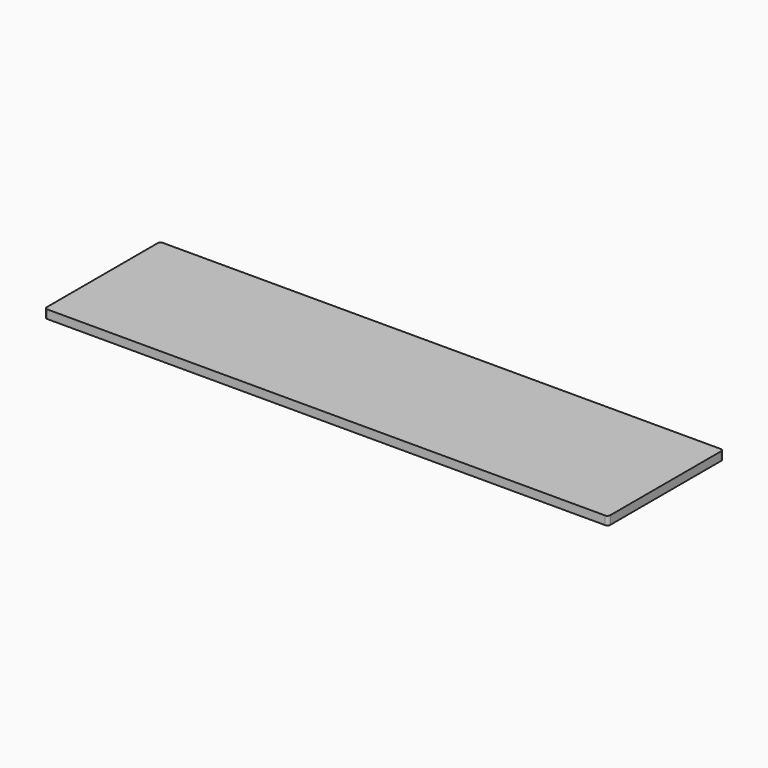
from build123d import *

# Parameters (mm, degrees)
PAD_DEPTH = 3


with BuildPart() as part:
    # Sketch → Pad (new body)
    with BuildSketch(Plane.XY):
        with BuildLine():
            ThreePointArc((0, 1), (0.292893, 0.292893), (1, 0))
            Line((197.4375, 0), (1, 0))
            ThreePointArc((197.4375, 0), (198.144607, 0.292893), (198.4375, 1))
            Line((198.4375, 49.8), (198.4375, 1))
            ThreePointArc((198.4375, 49.8), (198.144607, 50.507107), (197.4375, 50.8))
            Line((1, 50.8), (197.4375, 50.8))
            ThreePointArc((1, 50.8), (0.292893, 50.507107), (0, 49.8))
            Line((0, 1), (0, 49.8))
        make_face()
    extrude(amount=PAD_DEPTH)


solid = part.part
